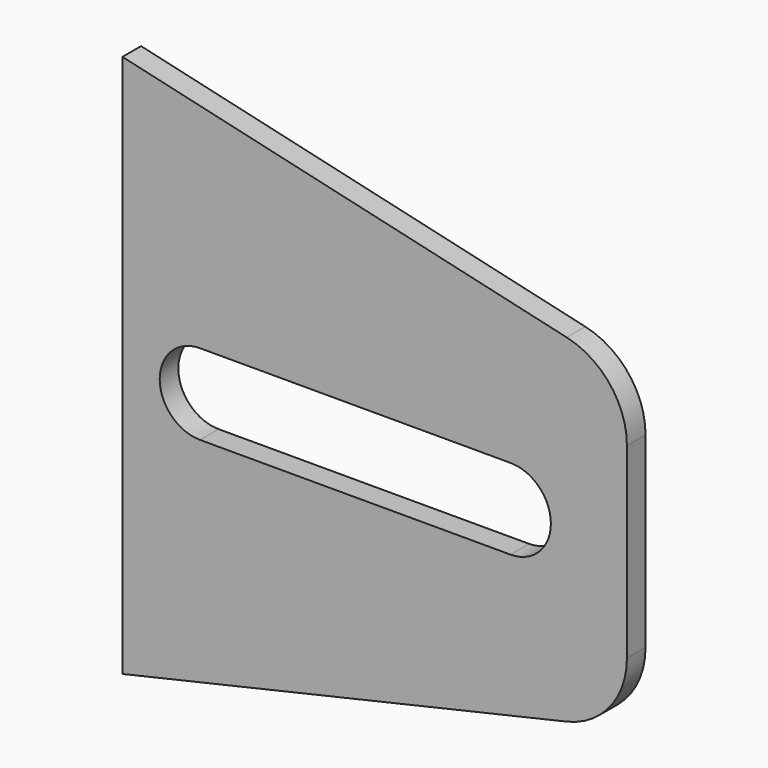
from build123d import *

# Parameters (mm, degrees)
F1_DEPTH = 3.81
F2_R     = 12.7


with BuildPart() as f1:
    # F0 (on Front) → F1 (new body)
    with BuildSketch(Plane.XZ):
        Polygon((82.55, 25.4), (0, 44.45), (0, -44.45), (82.55, -25.4), align=None)
        with BuildLine():
            ThreePointArc((12.7, -6.604), (6.096, 0), (12.7, 6.604))
            Line((12.7, 6.604), (63.5, 6.604))
            ThreePointArc((63.5, 6.604), (70.104, 0), (63.5, -6.604))
            Line((63.5, -6.604), (12.7, -6.604))
        make_face(mode=Mode.SUBTRACT)
    extrude(amount=F1_DEPTH)

    # F2
    f2_edges = [f1.edges().sort_by_distance(p)[0] for p in [
        (82.55, -1.905, 25.4),
        (82.55, -1.905, -25.4),
    ]]
    fillet(f2_edges, radius=F2_R)


solid = f1.part
